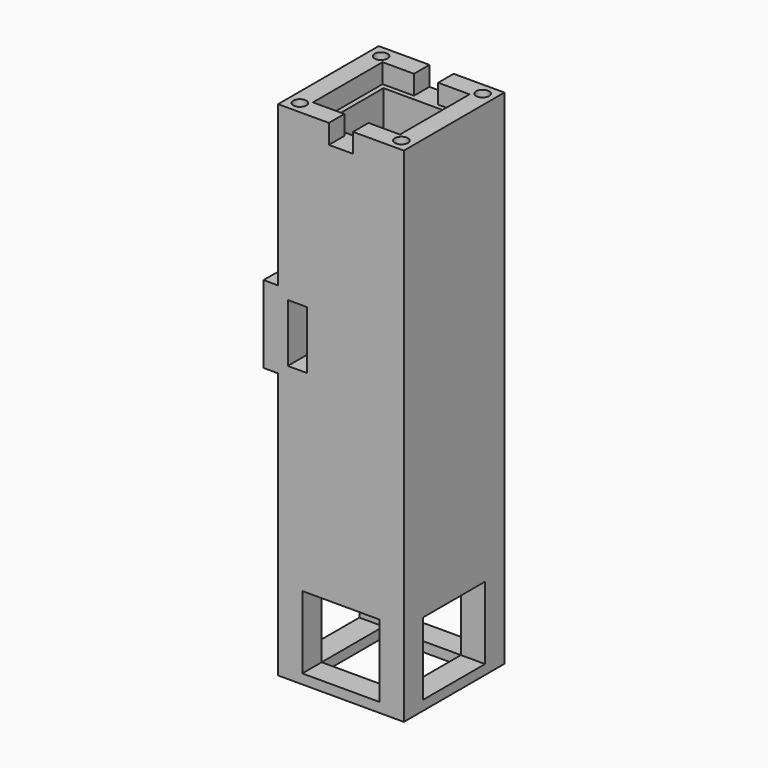
from build123d import *

# Parameters (mm, degrees)
F0_W      = 26
F0_H      = 26
F0_W_2    = 16
F0_H_2    = 16
F1_DEPTH  = 2
F2_DEPTH  = 100
F3_W      = 26
F3_H      = 26
F3_W_2    = 18
F3_H_2    = 18
F4_DEPTH  = 4
F5_W      = 5
F5_H      = 4
F6_DEPTH  = 4
F7_D      = 2.7
F7_DEPTH  = 4
F7_TIP    = 0.8111618357
F9_DEPTH  = 25
F10_W     = 3
F10_H     = 16
F11_DEPTH = 26
F12_W     = 4
F12_H     = 12
F13_DEPTH = 20
F14_W     = 16
F14_H     = 15
F15_DEPTH = 40
F16_W     = 16
F16_H     = 15
F17_DEPTH = 40


with BuildPart() as f1:
    # F0 (on Top) → F1 (new body)
    with BuildSketch(Plane.XY):
        Rectangle(F0_W, F0_H)
        Rectangle(F0_W_2, F0_H_2, mode=Mode.SUBTRACT)
        Rectangle(F0_W, F0_H)
        Rectangle(F0_W_2, F0_H_2, mode=Mode.SUBTRACT)
        Rectangle(F0_W_2, F0_H_2)
    extrude(amount=F1_DEPTH)

    # F0 (on Top) → F2 (join)
    with BuildSketch(Plane.XY):
        Rectangle(F0_W, F0_H)
        Rectangle(F0_W_2, F0_H_2, mode=Mode.SUBTRACT)
        Rectangle(F0_W, F0_H)
        Rectangle(F0_W_2, F0_H_2, mode=Mode.SUBTRACT)
    extrude(amount=F2_DEPTH)

    # F3 (on face) → F4 (join)
    with BuildSketch(Plane.XY.offset(100)):
        Rectangle(F3_W, F3_H)
        Rectangle(F3_W_2, F3_H_2, mode=Mode.SUBTRACT)
    extrude(amount=F4_DEPTH)

    # F5 (on face) → F6 (cut, through all)
    with BuildSketch(Plane.XY.offset(104)):
        with Locations((0, -11)):
            Rectangle(F5_W, F5_H)
        with Locations((0, 11)):
            Rectangle(F5_W, F5_H)
    extrude(amount=-F6_DEPTH, mode=Mode.SUBTRACT)

    # F7
    with Locations(Plane.XY.offset(104)):
        with Locations((-10.5, 10.5), (10.5, 10.5), (-10.5, -10.5), (10.5, -10.5)):
            Hole(F7_D / 2, depth=F7_DEPTH)
            with Locations((0, 0, -(F7_DEPTH + F7_TIP / 2))):  # 118° drill point
                Cone(0, F7_D / 2, F7_TIP, mode=Mode.SUBTRACT)

    # F0 (on Top) → F9 (cut)
    with BuildSketch(Plane.XY):
        Rectangle(F0_W_2, F0_H_2)
    extrude(amount=F9_DEPTH, mode=Mode.SUBTRACT)

    # F10 (on face) → F11 (join)
    with BuildSketch(Plane.XZ.offset(13)):
        with Locations((-14.5, 63)):
            Rectangle(F10_W, F10_H)
    extrude(amount=-F11_DEPTH)

    # F12 (on face) → F13 (cut)
    with BuildSketch(Plane.XZ.offset(13)):
        with Locations((-9, 63)):
            Rectangle(F12_W, F12_H)
    extrude(amount=-F13_DEPTH, mode=Mode.SUBTRACT)

    # F14 (on face) → F15 (cut)
    with BuildSketch(Plane.XZ.offset(13)):
        with Locations((0, 9.5)):
            Rectangle(F14_W, F14_H)
    extrude(amount=-F15_DEPTH, mode=Mode.SUBTRACT)

    # F16 (on face) → F17 (cut)
    with BuildSketch(Plane.YZ.offset(13)):
        with Locations((0, 9.5)):
            Rectangle(F16_W, F16_H)
    extrude(amount=-F17_DEPTH, mode=Mode.SUBTRACT)


solid = f1.part
